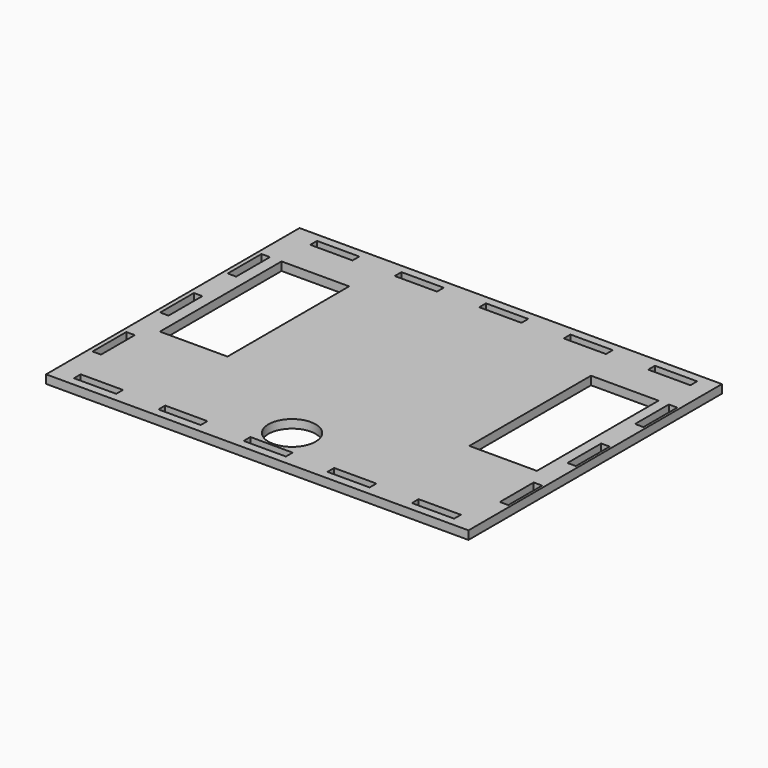
from build123d import *

# Parameters (mm, degrees)
F0_W     = 20
F0_H     = 4
F0_R     = 11.15
F0_W_2   = 32
F0_H_2   = 72
F1_DEPTH = 4


with BuildPart() as f1:
    # F0 (on Top) → F1 (new body)
    with BuildSketch(Plane.XY):
        Polygon((99.660581, -9.579476), (99.660581, 75.420524), (29.660581, 75.420524), (9.660581, 75.420524), (-100.339419, 75.420524), (-100.339419, -74.579476), (99.660581, -74.579476), (99.660581, -69.579476), (99.660581, -49.579476), (99.660581, -29.579476), align=None)
        with Locations((-80.339419, -68.579476)):
            Rectangle(F0_W, F0_H, mode=Mode.SUBTRACT)
        Polygon((-98.339419, -29.579476), (-94.339419, -29.579476), (-94.339419, -39.579476), (-94.339419, -49.579476), (-98.339419, -49.579476), (-98.339419, -39.579476), align=None, mode=Mode.SUBTRACT)
        with Locations((-40.339419, -68.579476)):
            Rectangle(F0_W, F0_H, mode=Mode.SUBTRACT)
        Polygon((-10, -66.579476), (0, -66.579476), (10, -66.579476), (10, -70.579476), (-10, -70.579476), align=None, mode=Mode.SUBTRACT)
        with Locations((39.660581, -68.579476)):
            Rectangle(F0_W, F0_H, mode=Mode.SUBTRACT)
        with Locations((0, -54.429476)):
            Circle(F0_R, mode=Mode.SUBTRACT)
        with Locations((79.660581, -68.579476)):
            Rectangle(F0_W, F0_H, mode=Mode.SUBTRACT)
        Polygon((94.523581, -39.579476), (94.523581, -29.579476), (98.523581, -29.579476), (98.523581, -39.579476), (98.523581, -49.579476), (94.523581, -49.579476), align=None, mode=Mode.SUBTRACT)
        Polygon((-98.339419, -9.579476), (-98.339419, 0.420524), (-98.339419, 10.420524), (-94.339419, 10.420524), (-94.339419, 0.420524), (-94.339419, -9.579476), align=None, mode=Mode.SUBTRACT)
        with Locations((-72.85, 14.420524)):
            Rectangle(F0_W_2, F0_H_2, mode=Mode.SUBTRACT)
        Polygon((-98.339419, 30.420524), (-98.339419, 40.420524), (-98.339419, 50.420524), (-94.339419, 50.420524), (-94.339419, 40.420524), (-94.339419, 30.420524), align=None, mode=Mode.SUBTRACT)
        with Locations((-78.85, 69.420524)):
            Rectangle(F0_W, F0_H, mode=Mode.SUBTRACT)
        with Locations((-38.85, 69.420524)):
            Rectangle(F0_W, F0_H, mode=Mode.SUBTRACT)
        with Locations((73.660581, 14.420524)):
            Rectangle(F0_W_2, F0_H_2, mode=Mode.SUBTRACT)
        Polygon((94.523581, -9.579476), (94.523581, 0.420524), (94.523581, 10.420524), (98.523581, 10.420524), (98.523581, 0.420524), (98.523581, -9.579476), align=None, mode=Mode.SUBTRACT)
        with Locations((1.15, 69.420524)):
            Rectangle(F0_W, F0_H, mode=Mode.SUBTRACT)
        with Locations((41.15, 69.420524)):
            Rectangle(F0_W, F0_H, mode=Mode.SUBTRACT)
        Polygon((98.523581, 40.420524), (98.523581, 30.420524), (94.523581, 30.420524), (94.523581, 40.420524), (94.523581, 50.420524), (98.523581, 50.420524), align=None, mode=Mode.SUBTRACT)
        with Locations((81.15, 69.420524)):
            Rectangle(F0_W, F0_H, mode=Mode.SUBTRACT)
    extrude(amount=F1_DEPTH)


solid = f1.part
